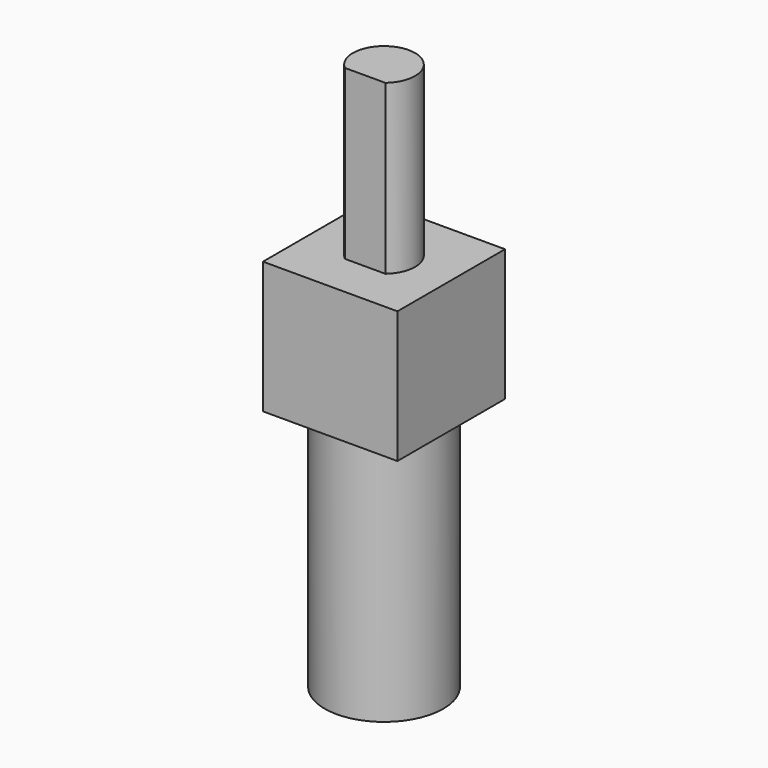
from build123d import *

# Parameters (mm, degrees)
F0_R     = 4.5
F1_DEPTH = 18.8087
F2_W     = 10.2
F2_H     = 10.2
F3_DEPTH = 10
F4_R     = 2.36
F5_DEPTH = 12.75
F7_DEPTH = 12.75


with BuildPart() as f1:
    # F0 (on Top) → F1 (new body)
    with BuildSketch(Plane.XY):
        Circle(F0_R)
    extrude(amount=F1_DEPTH)

    # F2 (on face) → F3 (join)
    with BuildSketch(Plane.XY.offset(18.8087)):
        Rectangle(F2_W, F2_H)
    extrude(amount=F3_DEPTH)

    # F4 (on face) → F5 (join)
    with BuildSketch(Plane.XY.offset(28.8087)):
        Circle(F4_R)
    extrude(amount=F5_DEPTH)

    # F6 (on face) → F7 (cut)
    with BuildSketch(Plane.XY.offset(41.5587)):
        with BuildLine():
            ThreePointArc((-1.538018, -1.79), (-0.820122, -2.212917), (0, -2.36))
            Line((0, -2.36), (0, -1.79))
            Line((0, -1.79), (-1.538018, -1.79))
        make_face()
        with BuildLine():
            Line((0, -1.79), (0, -2.36))
            ThreePointArc((0, -2.36), (0.820122, -2.212917), (1.538018, -1.79))
            Line((1.538018, -1.79), (0, -1.79))
        make_face()
    extrude(amount=-F7_DEPTH, mode=Mode.SUBTRACT)


solid = f1.part
